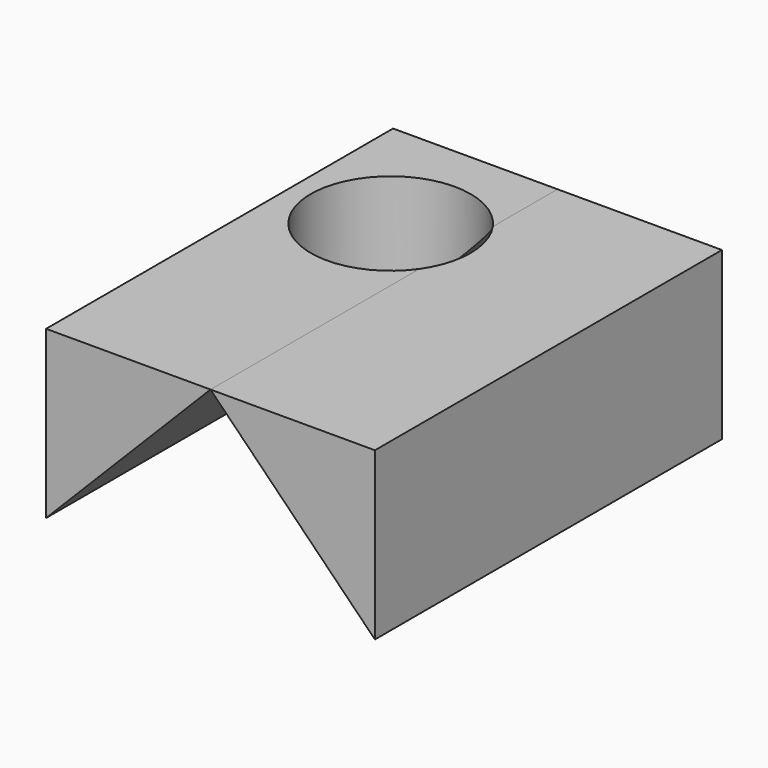
from build123d import *

# Parameters (mm, degrees)
F0_W     = 77.0312082022
F0_H     = 39.0245728195
F1_DEPTH = 101.6
F2_R     = 18.7285451054
F3_DEPTH = 39.0255728195
F5_DEPTH = 101.601


with BuildPart() as f1:
    # F0 (on Front) → F1 (new body)
    with BuildSketch(Plane.XZ):
        with Locations((-26.4322767034, 19.5122864097)):
            Rectangle(F0_W, F0_H)
    extrude(amount=F1_DEPTH)

    # F2 (on face) → F3 (cut, through all)
    with BuildSketch(Plane.XY.offset(39.0245728195)):
        with Locations((-41.7767949402, -29.6690277755)):
            Circle(F2_R)
    extrude(amount=-F3_DEPTH, mode=Mode.SUBTRACT)

    # F4 (on face) → F5 (cut, through all)
    with BuildSketch(Plane.XZ.offset(101.6)):
        Polygon((-26.4322767034, 39.0245728195), (-64.9478808045, 0), (12.0833273977, 0), align=None)
    extrude(amount=-F5_DEPTH, mode=Mode.SUBTRACT)


solid = f1.part
